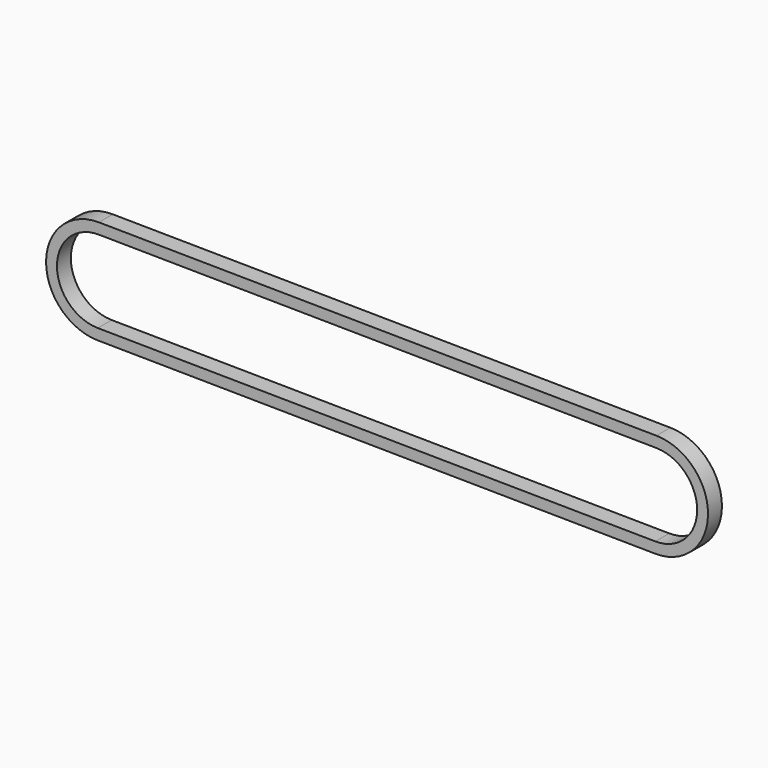
from build123d import *

# Parameters (mm, degrees)
F1_DEPTH = 6.35


with BuildPart() as f1:
    # F0 (on Front) → F1 (new body)
    with BuildSketch(Plane.XZ):
        with BuildLine():
            Line((0.222685, 19.048698), (-203.471396, 21.429948))
            ThreePointArc((-203.471396, 21.429948), (-222.74278, 2.603935), (-203.916767, -16.667448))
            Line((-203.916767, -16.667448), (-0.222685, -19.048698))
            ThreePointArc((-0.222685, -19.048698), (19.048698, -0.222685), (0.222685, 19.048698))
        make_face()
        with BuildLine():
            Line((-0.176293, -15.08022), (-203.870374, -12.69897))
            ThreePointArc((-203.870374, -12.69897), (-218.774301, 2.557543), (-203.517789, 17.46147))
            Line((-203.517789, 17.46147), (0.176293, 15.08022))
            ThreePointArc((0.176293, 15.08022), (15.08022, -0.176293), (-0.176293, -15.08022))
        make_face(mode=Mode.SUBTRACT)
    extrude(amount=F1_DEPTH)


solid = f1.part
